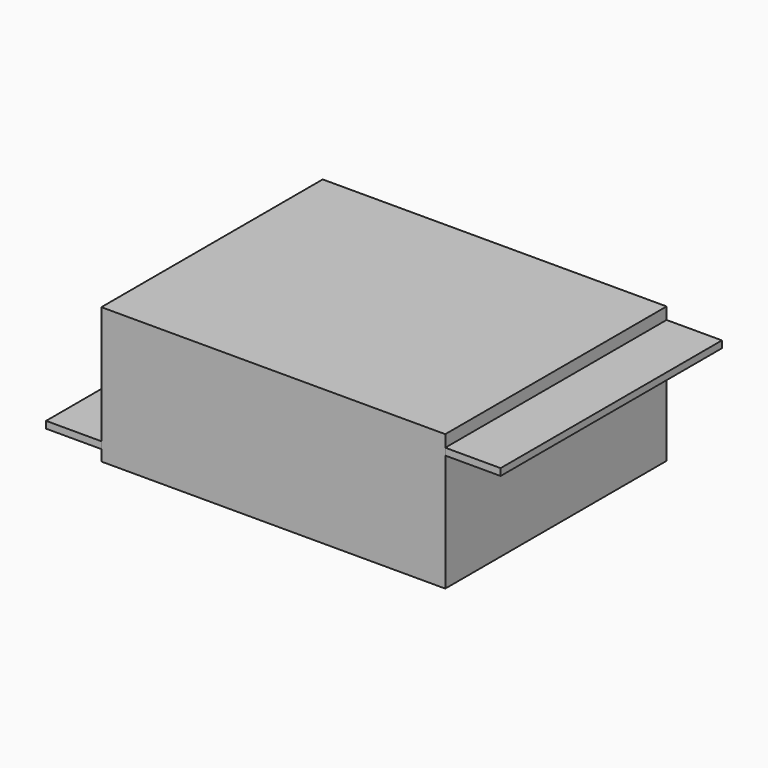
from build123d import *

# Parameters (mm, degrees)
F0_W     = 63.144043088
F0_H     = 24.9639227986
F3_DEPTH = 25.4
F1_W     = 10.16
F1_H     = 1.27
F2_W     = 10.16
F2_H     = 1.27


with BuildPart() as f3:
    # F0 (on Front) → F3 (new body, symmetric)
    with BuildSketch(Plane.XZ):
        Rectangle(F0_W, F0_H)
    extrude(amount=F3_DEPTH, both=True)


with BuildPart() as f3b:
    # F1 (on Front) → F3, piece 2 (new body, symmetric)
    with BuildSketch(Plane.XZ):
        with Locations((36.6514939815, 9.6600476645)):
            Rectangle(F1_W, F1_H)
    extrude(amount=F3_DEPTH, both=True)


with BuildPart() as f3c:
    # F2 (on Front) → F3, piece 3 (new body, symmetric)
    with BuildSketch(Plane.XZ):
        with Locations((-36.6476550698, -9.8343824477)):
            Rectangle(F2_W, F2_H)
    extrude(amount=F3_DEPTH, both=True)


solid = Compound([f3.part, f3b.part, f3c.part])
